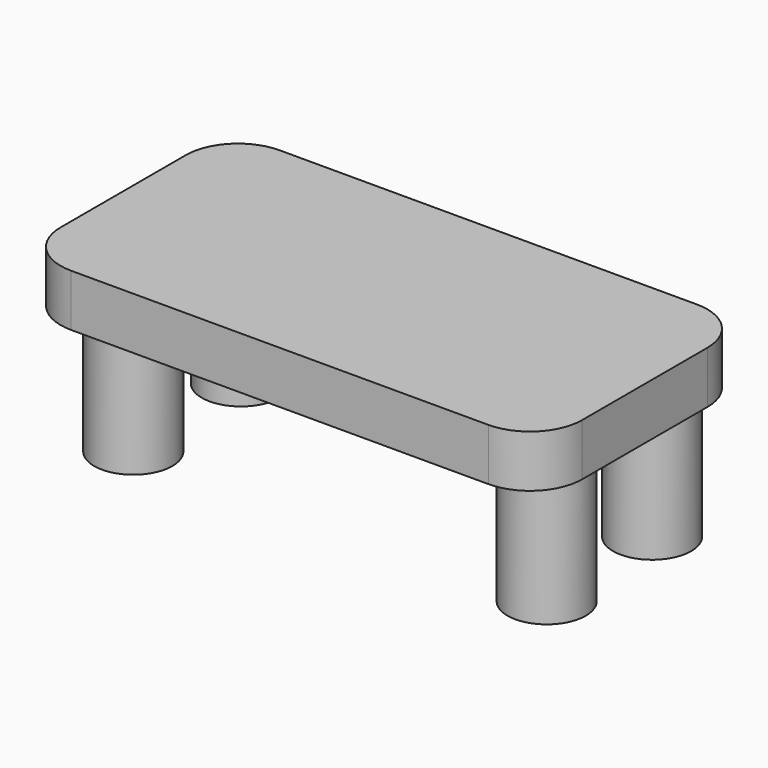
from build123d import *

# Parameters (mm, degrees)
F1_DEPTH = 10
F2_R     = 7.5
F3_DEPTH = 25


with BuildPart() as f1:
    # F0 (on Top) → F1 (new body)
    with BuildSketch(Plane.XY):
        with BuildLine():
            Line((40, 25), (-40, 25))
            ThreePointArc((-40, 25), (-47.071068, 22.071068), (-50, 15))
            Line((-50, 15), (-50, -15))
            ThreePointArc((-50, -15), (-47.071068, -22.071068), (-40, -25))
            Line((-40, -25), (40, -25))
            ThreePointArc((40, -25), (47.071068, -22.071068), (50, -15))
            Line((50, -15), (50, 15))
            ThreePointArc((50, 15), (47.071068, 22.071068), (40, 25))
        make_face()
    extrude(amount=F1_DEPTH)

    # F2 (on Top) → F3 (join)
    with BuildSketch(Plane.XY):
        with Locations((-39.32556, 14.859298)):
            Circle(F2_R)
        with Locations((-38.085215, -12.489102)):
            Circle(F2_R)
        with Locations((39.797284, 14.499884)):
            Circle(F2_R)
        with Locations((40.5684, -11.717988)):
            Circle(F2_R)
    extrude(amount=-F3_DEPTH)


solid = f1.part
